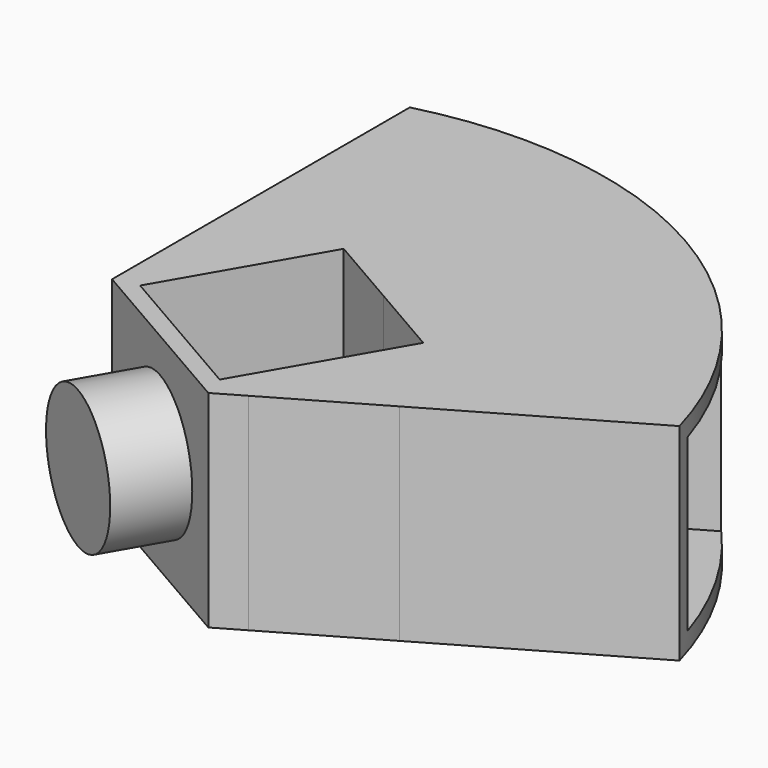
from build123d import *

# Parameters (mm, degrees)
F1_DEPTH = 15
F3_DEPTH = 8
F5_START = -1.3
F4_W     = 12.4
F4_H     = 10.6533105238
F5_DEPTH = 12.4
F6_R     = 5
F7_DEPTH = 5
F8_R     = 4.2
F9_DEPTH = 3.5


with BuildPart() as f1:
    # F0 (on Top) → F1 (new body)
    with BuildSketch(Plane.XY):
        with BuildLine():
            Line((7.5, 12.9903810568), (7.5, 29.0473750966))
            ThreePointArc((7.5, 29.0473750966), (0, 30), (-7.5, 29.0473750966))
            Line((-7.5, 29.0473750966), (-7.5, 12.9903810568))
            Line((-7.5, 12.9903810568), (0, 8.6602540378))
            Line((0, 8.6602540378), (7.5, 12.9903810568))
        make_face()
        with BuildLine():
            Line((7.5, 12.9903810568), (21.4057647469, 21.0188780767))
            ThreePointArc((21.4057647469, 21.0188780767), (15, 25.9807621135), (7.5, 29.0473750966))
            Line((7.5, 29.0473750966), (7.5, 12.9903810568))
        make_face()
        with BuildLine():
            Line((15, 0), (28.9057647469, 8.0284970199))
            ThreePointArc((28.9057647469, 8.0284970199), (25.9807621135, 15), (21.4057647469, 21.0188780767))
            Line((21.4057647469, 21.0188780767), (7.5, 12.9903810568))
            Line((7.5, 12.9903810568), (7.5, 4.3301270189))
            Line((7.5, 4.3301270189), (15, 0))
        make_face()
        Polygon((7.5, -4.3301270189), (15, 0), (7.5, 4.3301270189), align=None)
        Polygon((7.5, 4.3301270189), (7.5, 12.9903810568), (0, 8.6602540378), align=None)
        Polygon((5.4903810568, -5.4903810568), (7.5, -4.3301270189), (7.5, 4.3301270189), (0, 8.6602540378), (-7.5, 4.3301270189), (-7.5, 2.0096189432), align=None)
        Polygon((-7.5, 4.3301270189), (0, 8.6602540378), (-7.5, 12.9903810568), align=None)
    extrude(amount=F1_DEPTH)

    # F2 (on face) → F3 (cut)
    with BuildSketch(Plane.XY.offset(15)):
        Polygon((-5.7741669751, 2.3988494278), (-0.4048094716, -0.7011505722), (5.7951905284, 10.0375644347), (0.4258330249, 13.1375644347), align=None)
        Polygon((5.7951905284, 10.0375644347), (-0.4048094716, -0.7011505722), (4.9645480318, -3.8011505722), (11.1645480318, 6.9375644347), align=None)
    extrude(amount=-F3_DEPTH, mode=Mode.SUBTRACT)

    # F4 (on face) → F5 (cut)
    with BuildSketch(Plane.XY.offset(15).offset(F5_START)):
        with Locations((-0.1, 26.3740303584)):
            Rectangle(F4_W, F4_H)
        Polygon((15.1775615166, 15.8064425114), (21.3775615166, 5.0677275044), (35.9265312226, 13.4675790806), (29.7265312226, 24.2062940875), align=None)
    extrude(amount=-F5_DEPTH, mode=Mode.SUBTRACT)

    # F6 (on face) → F7 (join)
    with BuildSketch(Plane(origin=(-1.0048094716, -1.7403810568, 0), x_dir=(0.8660254038, -0.5, 0), z_dir=(-0.5, -0.8660254038, 0))):
        with Locations((0, 7.5)):
            Circle(F6_R)
    extrude(amount=F7_DEPTH)

    # F8 (on face) → F9 (cut)
    with BuildSketch(Plane(origin=(18.2275615166, 10.5236875483, 0), x_dir=(-0.5, 0.8660254038, 0), z_dir=(0.8660254038, 0.5, 0))):
        with Locations((-0.1, 7.5)):
            Circle(F8_R)
    extrude(amount=-F9_DEPTH, mode=Mode.SUBTRACT)


solid = f1.part
